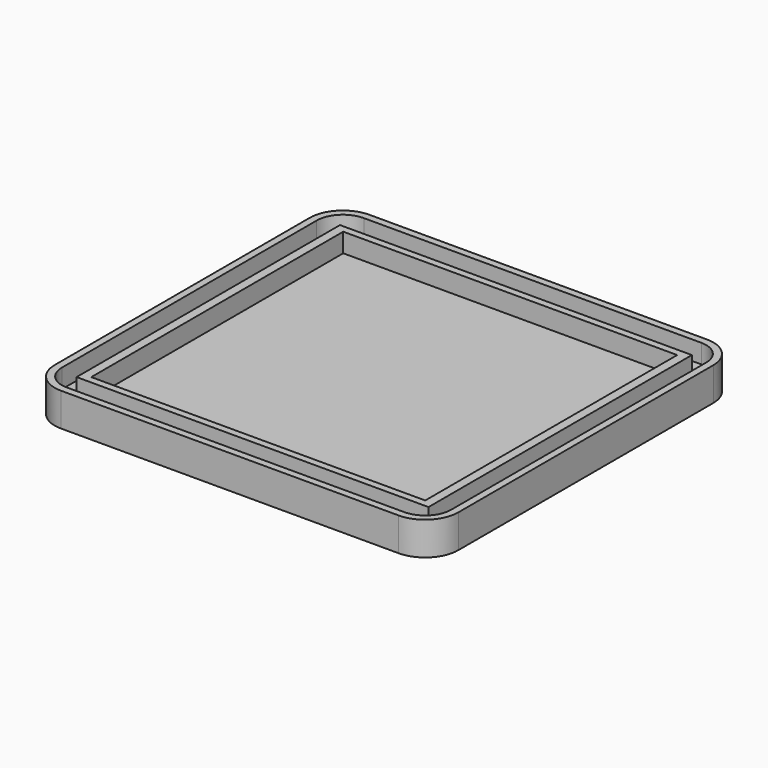
from build123d import *

# Parameters (mm, degrees)
F0_W     = 74
F0_H     = 69.2229812741
F0_W_2   = 70.2229812741
F0_H_2   = 66.2229812741
F1_DEPTH = 3
F2_DEPTH = 7
F3_DEPTH = 7


with BuildPart() as f1:
    # F0 (on Top) → F1 (new body)
    with BuildSketch(Plane.XY):
        with BuildLine():
            Line((42, -33.0089111648), (42, 33.9910888352))
            ThreePointArc((42, 33.9910888352), (40.0961940777, 38.587282913), (35.5, 40.4910888352))
            Line((35.5, 40.4910888352), (-35.5, 40.4910888352))
            ThreePointArc((-35.5, 40.4910888352), (-40.4434463233, 38.4434463233), (-42.4910888352, 33.5))
            Line((-42.4910888352, 33.5), (-42.4910888352, -33.5))
            ThreePointArc((-42.4910888352, -33.5), (-40.587282913, -38.0961940777), (-35.9910888352, -40))
            Line((-35.9910888352, -40), (35.0089111648, -40))
            ThreePointArc((35.0089111648, -40), (39.952357488, -37.952357488), (42, -33.0089111648))
        make_face()
        with BuildLine():
            ThreePointArc((-40.9910888352, 33.5), (-39.3827861515, 37.3827861515), (-35.5, 38.9910888352))
            Line((-35.5, 38.9910888352), (35.5, 38.9910888352))
            ThreePointArc((35.5, 38.9910888352), (39.0355339059, 37.5266227412), (40.5, 33.9910888352))
            Line((40.5, 33.9910888352), (40.5, -33.0089111648))
            ThreePointArc((40.5, -33.0089111648), (38.8916973163, -36.8916973163), (35.0089111648, -38.5))
            Line((35.0089111648, -38.5), (-35.9910888352, -38.5))
            ThreePointArc((-35.9910888352, -38.5), (-39.5266227412, -37.0355339059), (-40.9910888352, -33.5))
            Line((-40.9910888352, -33.5), (-40.9910888352, 33.5))
        make_face(mode=Mode.SUBTRACT)
        with BuildLine():
            Line((35.5, 38.9910888352), (-35.5, 38.9910888352))
            ThreePointArc((-35.5, 38.9910888352), (-39.3827861515, 37.3827861515), (-40.9910888352, 33.5))
            Line((-40.9910888352, 33.5), (-40.9910888352, -33.5))
            ThreePointArc((-40.9910888352, -33.5), (-39.5266227412, -37.0355339059), (-35.9910888352, -38.5))
            Line((-35.9910888352, -38.5), (35.0089111648, -38.5))
            ThreePointArc((35.0089111648, -38.5), (38.8916973163, -36.8916973163), (40.5, -33.0089111648))
            Line((40.5, -33.0089111648), (40.5, 33.9910888352))
            ThreePointArc((40.5, 33.9910888352), (39.0355339059, 37.5266227412), (35.5, 38.9910888352))
        make_face()
        Rectangle(F0_W, F0_H, mode=Mode.SUBTRACT)
        Rectangle(F0_W, F0_H)
        Rectangle(F0_W_2, F0_H_2, mode=Mode.SUBTRACT)
        Rectangle(F0_W_2, F0_H_2)
    extrude(amount=F1_DEPTH)

    # F0 (on Top) → F2 (join)
    with BuildSketch(Plane.XY):
        with BuildLine():
            Line((42, -33.0089111648), (42, 33.9910888352))
            ThreePointArc((42, 33.9910888352), (40.0961940777, 38.587282913), (35.5, 40.4910888352))
            Line((35.5, 40.4910888352), (-35.5, 40.4910888352))
            ThreePointArc((-35.5, 40.4910888352), (-40.4434463233, 38.4434463233), (-42.4910888352, 33.5))
            Line((-42.4910888352, 33.5), (-42.4910888352, -33.5))
            ThreePointArc((-42.4910888352, -33.5), (-40.587282913, -38.0961940777), (-35.9910888352, -40))
            Line((-35.9910888352, -40), (35.0089111648, -40))
            ThreePointArc((35.0089111648, -40), (39.952357488, -37.952357488), (42, -33.0089111648))
        make_face()
        with BuildLine():
            ThreePointArc((-40.9910888352, 33.5), (-39.3827861515, 37.3827861515), (-35.5, 38.9910888352))
            Line((-35.5, 38.9910888352), (35.5, 38.9910888352))
            ThreePointArc((35.5, 38.9910888352), (39.0355339059, 37.5266227412), (40.5, 33.9910888352))
            Line((40.5, 33.9910888352), (40.5, -33.0089111648))
            ThreePointArc((40.5, -33.0089111648), (38.8916973163, -36.8916973163), (35.0089111648, -38.5))
            Line((35.0089111648, -38.5), (-35.9910888352, -38.5))
            ThreePointArc((-35.9910888352, -38.5), (-39.5266227412, -37.0355339059), (-40.9910888352, -33.5))
            Line((-40.9910888352, -33.5), (-40.9910888352, 33.5))
        make_face(mode=Mode.SUBTRACT)
    extrude(amount=F2_DEPTH)

    # F0 (on Top) → F3 (join)
    with BuildSketch(Plane.XY):
        Rectangle(F0_W, F0_H)
        Rectangle(F0_W_2, F0_H_2, mode=Mode.SUBTRACT)
    extrude(amount=F3_DEPTH)


solid = f1.part
